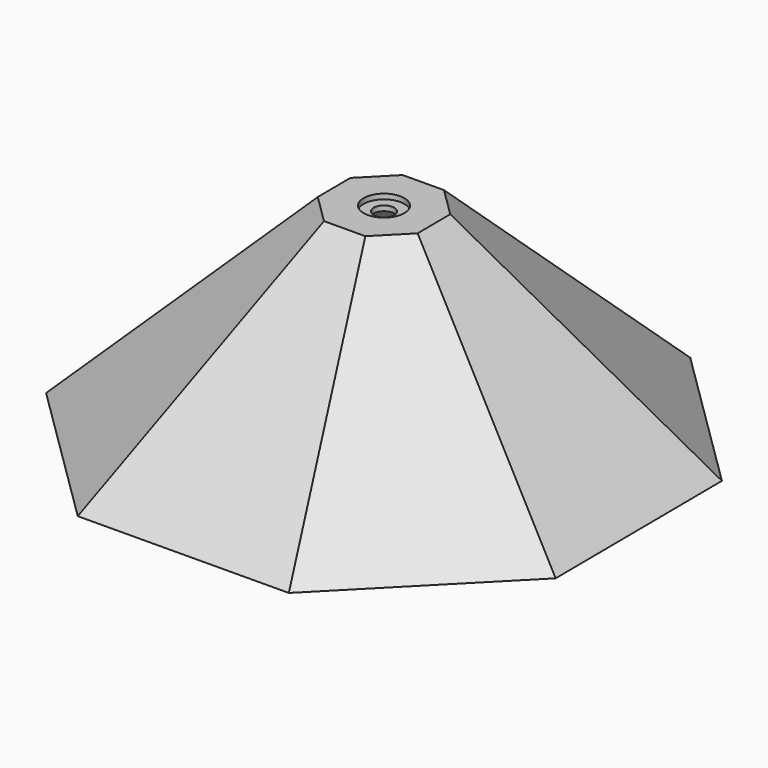
from build123d import *

# Parameters (mm, degrees)
F1_DEPTH       = 127
F1_TAPER       = -45
F2_T           = -6.35
F4_D           = 12.7
F4_CBORE_D     = 25.4
F4_CBORE_DEPTH = 3.175


with BuildPart() as f1:
    # F0 (on Top) → F1 (new body)
    with BuildSketch(Plane.XY):
        Polygon((-13.0555904381, 30.8586688383), (-31.0520705251, 12.5886774628), (-30.8586688383, -13.0555904381), (-12.5886774628, -31.0520705251), (13.0555904381, -30.8586688383), (31.0520705251, -12.5886774628), (30.8586688383, 13.0555904381), (12.5886774628, 31.0520705251), align=None)
    extrude(amount=-F1_DEPTH, taper=F1_TAPER)

    # F2
    f2_openings = [f1.faces().sort_by_distance(p)[0] for p in [
        (0, 0, -127),
    ]]
    offset(amount=F2_T, openings=f2_openings, kind=Kind.INTERSECTION)

    # F4 (through all)
    with Locations(Plane.XY):
        with Locations((0, 0)):
            CounterBoreHole(F4_D / 2, F4_CBORE_D / 2, F4_CBORE_DEPTH)


solid = f1.part
